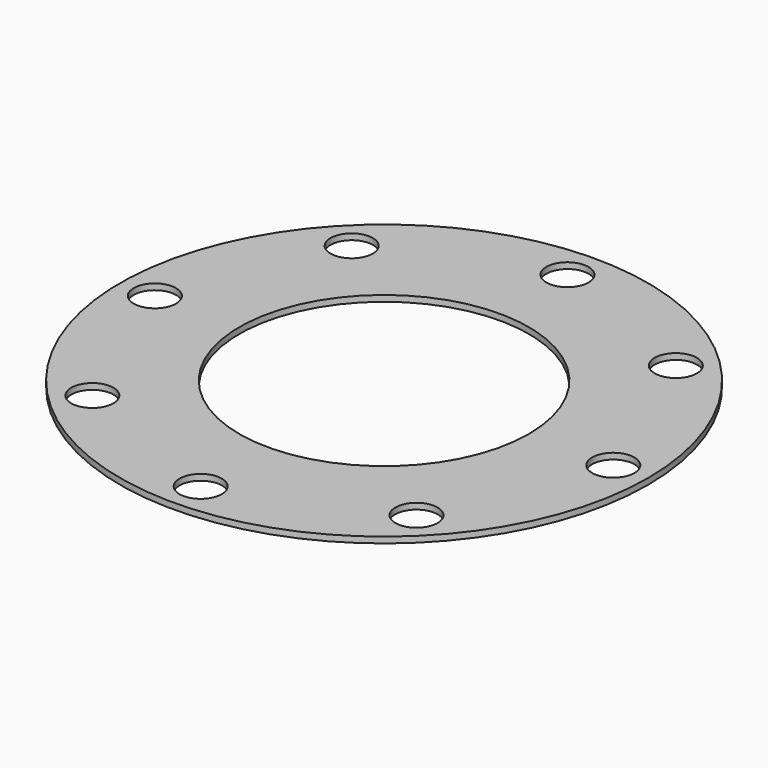
from build123d import *

# Parameters (mm, degrees)
F0_R     = 138.938
F0_R_2   = 76.2
F1_DEPTH = 3.175
F2_D     = 22.225


with BuildPart() as f1:
    # F0 (on Top) → F1 (new body)
    with BuildSketch(Plane.XY):
        Circle(F0_R)
        Circle(F0_R_2, mode=Mode.SUBTRACT)
    extrude(amount=F1_DEPTH)

    # F2 (through all)
    with Locations(Plane(origin=(0, 0, 0), x_dir=(1, 0, 0), z_dir=(0, 0, -1))):
        with Locations((-85.312433, 85.312433), (-120.65, 0), (-85.312433, -85.312433), (0, -120.65), (85.312433, -85.312433), (120.65, 0), (85.312433, 85.312433), (0, 120.65)):
            Hole(F2_D / 2)


solid = f1.part
